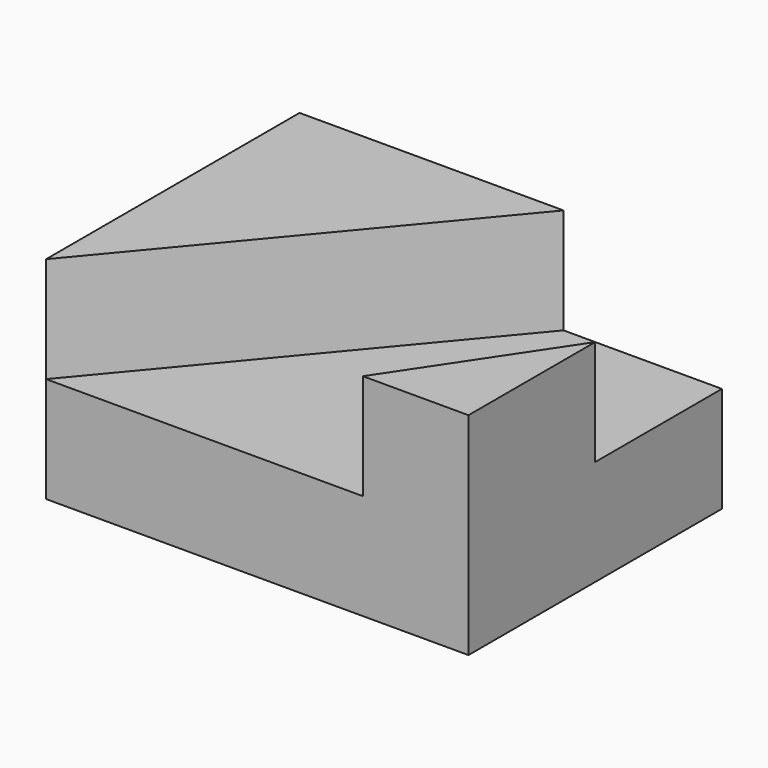
from build123d import *

# Parameters (mm, degrees)
F0_W     = 101.6
F0_H     = 76.2
F1_DEPTH = 25.4
F3_DEPTH = 25.4
F5_DEPTH = 25.4


with BuildPart() as f1:
    # F0 (on Top) → F1 (new body)
    with BuildSketch(Plane.XY):
        with Locations((-2.955392, -5.993164)):
            Rectangle(F0_W, F0_H)
    extrude(amount=F1_DEPTH)

    # F2 (on face) → F3 (join)
    with BuildSketch(Plane.XY.offset(25.4)):
        Polygon((47.844608, -5.993164), (22.444608, -44.093164), (47.844608, -44.093164), align=None)
    extrude(amount=F3_DEPTH)

    # F4 (on face) → F5 (join)
    with BuildSketch(Plane.XY.offset(25.4)):
        Polygon((-53.755392, 32.106836), (-53.755392, -44.093164), (9.744608, 32.106836), align=None)
    extrude(amount=F5_DEPTH)


solid = f1.part
